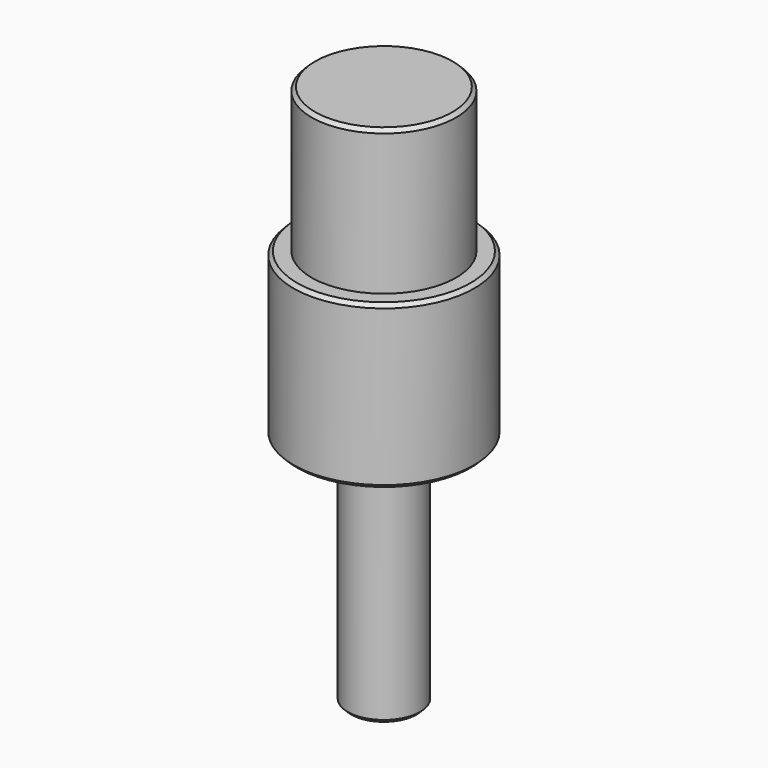
from build123d import *

# Parameters (mm, degrees)
F2_SIZE        = 1
F5_DEPTH       = 5
F8_D           = 5
F8_DEPTH       = 15
F8_CSINK_D     = 13.44
F8_CSINK_ANGLE = 90
F8_TIP         = 1.5021515476


with BuildPart() as f1:
    # F0 (on Front) → F1 (revolve)
    with BuildSketch(Plane.XZ):
        Polygon((-10, -31.0083918493), (0, -31.0083918493), (0, 118.9916081507), (-20, 118.9916081507), (-20, 78.9916081507), (-25, 78.9916081507), (-25, 33.9916081507), (-10, 33.9916081507), align=None)
    revolve(axis=Axis((0, 0, 43.9916081507), (0, 0, -1)))

    # F2
    f2_edges = [f1.edges().sort_by_distance(p)[0] for p in [
        (10, 0, -31.008392),
        (25, 0, 33.991608),
        (25, 0, 78.991608),
        (20, 0, 118.991608),
    ]]
    chamfer(f2_edges, length=F2_SIZE)

    # F4 (on offset) → F5 (cut)
    with BuildSketch(Plane.YZ.offset(-10)):
        with BuildLine():
            Line((-3, -31.0083918493), (3, -31.0083918493))
            Line((3, -31.0083918493), (3, -14.0083918493))
            ThreePointArc((3, -14.0083918493), (2.1213203436, -11.8870715058), (0, -11.0083918493))
            ThreePointArc((0, -11.0083918493), (-2.1213203436, -11.8870715058), (-3, -14.0083918493))
            Line((-3, -14.0083918493), (-3, -31.0083918493))
        make_face()
    extrude(amount=F5_DEPTH, mode=Mode.SUBTRACT)

    # F8
    with Locations(Plane(origin=(0, 0, -31.0083918493), x_dir=(1, 0, 0), z_dir=(0, 0, -1))):
        with Locations((0, 0)):
            CounterSinkHole(F8_D / 2, F8_CSINK_D / 2, depth=F8_DEPTH, counter_sink_angle=F8_CSINK_ANGLE)
            with Locations((0, 0, -(F8_DEPTH + F8_TIP / 2))):  # 118° drill point
                Cone(0, F8_D / 2, F8_TIP, mode=Mode.SUBTRACT)


solid = f1.part
